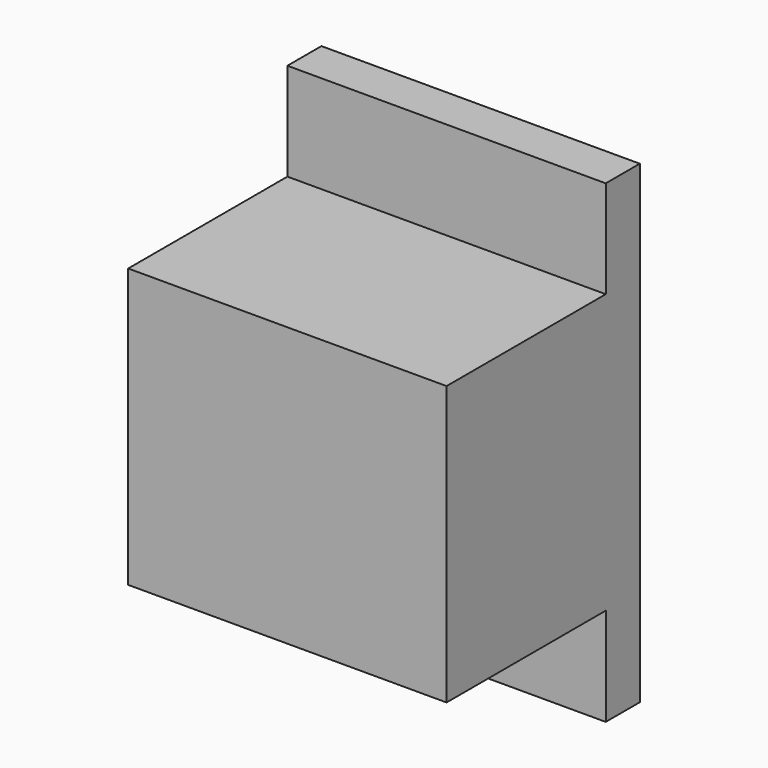
from build123d import *

# Parameters (mm, degrees)
F1_DEPTH  = 40
F2_R      = 10
F2_R_2    = 5
F1_FACE_W = 40
F1_FACE_H = 35
F3_DEPTH  = 18


with BuildPart() as f1:
    # F0 (on Right) → F1 (new body)
    with BuildSketch(Plane.YZ):
        Polygon((12.356097, 23.456169), (12.356097, 11.191107), (-12.643903, 11.191107), (-12.643903, -23.808893), (12.356097, -23.808893), (12.356097, -36.119621), (17.700054, -36.119621), (17.700054, 23.456169), align=None)
    extrude(amount=F1_DEPTH)

    # F2 (on Front) + F1_face (on face) → F3 (join)
    with BuildSketch(Plane.XZ):
        with Locations((19.120954, -4.390738)):
            Circle(F2_R)
        with Locations((19.120954, -4.390738)):
            Circle(F2_R_2, mode=Mode.SUBTRACT)
    with BuildSketch(Plane(origin=(20, -12.643903, -6.308893), x_dir=(1, 0, 0), z_dir=(0, -1, 0))):
        Rectangle(F1_FACE_W, F1_FACE_H)
    extrude(amount=-F3_DEPTH)


solid = f1.part
